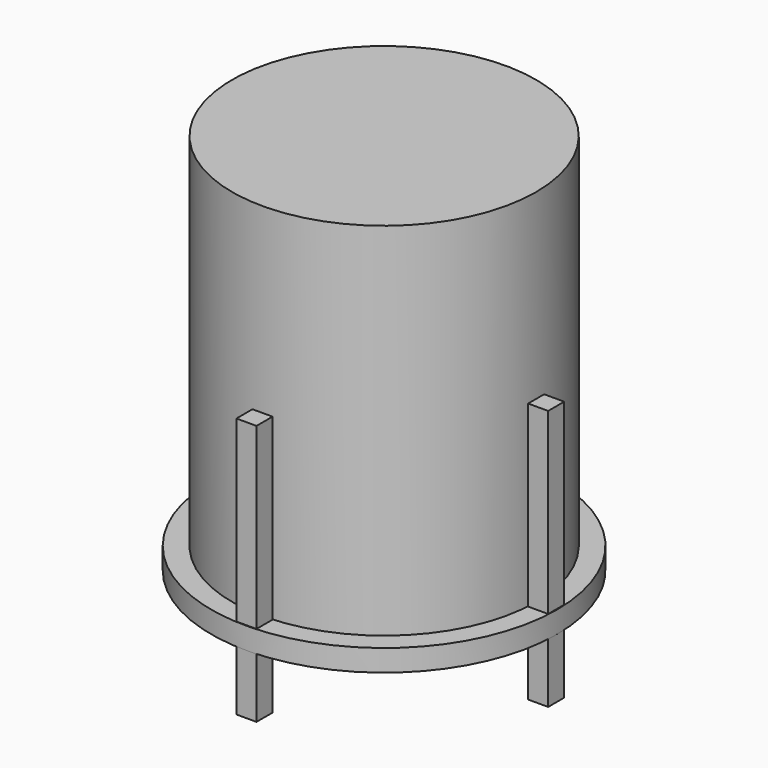
from build123d import *

# Parameters (mm, degrees)
F0_R     = 1155.7
F1_DEPTH = 2743.2
F2_R     = 1314.45
F2_R_2   = 1155.7
F3_DEPTH = 165.1
F5_DEPTH = 1358.9
F6_DEPTH = 622.3


with BuildPart() as f1:
    # F0 (on Top) → F1 (new body)
    with BuildSketch(Plane.XY):
        Circle(F0_R)
    extrude(amount=F1_DEPTH)


with BuildPart() as f3:
    # F2 (on face) → F3 (new body)
    with BuildSketch(Plane(origin=(0, 0, 0), x_dir=(1, 0, 0), z_dir=(0, 0, -1))):
        Circle(F2_R)
        Circle(F2_R_2, mode=Mode.SUBTRACT)
    extrude(amount=F3_DEPTH)


with BuildPart() as f5:
    # F4 (on face) → F5 (new body)
    with BuildSketch(Plane.XY):
        Polygon((-1155.7, 0), (-1155.7, 76.2), (-1308.1, 76.2), (-1308.1, 0), (-1308.1, -76.2), (-1155.7, -76.2), align=None)
        Polygon((76.2, -1308.1), (76.2, -1155.7), (0, -1155.7), (-76.2, -1155.7), (-76.2, -1308.1), (0, -1308.1), align=None)
        Polygon((1308.1, 76.2), (1155.7, 76.2), (1155.7, 0), (1155.7, -76.2), (1308.1, -76.2), (1308.1, 0), align=None)
        Polygon((-76.2, 1308.1), (-76.2, 1155.7), (0, 1155.7), (76.2, 1155.7), (76.2, 1308.1), (0, 1308.1), align=None)
    extrude(amount=F5_DEPTH)


with BuildPart() as f6:
    # F4 (on face) → F6 (new body)
    with BuildSketch(Plane.XY):
        Polygon((-1155.7, 0), (-1155.7, 76.2), (-1308.1, 76.2), (-1308.1, 0), (-1308.1, -76.2), (-1155.7, -76.2), align=None)
        Polygon((76.2, -1308.1), (76.2, -1155.7), (0, -1155.7), (-76.2, -1155.7), (-76.2, -1308.1), (0, -1308.1), align=None)
        Polygon((1308.1, 76.2), (1155.7, 76.2), (1155.7, 0), (1155.7, -76.2), (1308.1, -76.2), (1308.1, 0), align=None)
        Polygon((-76.2, 1308.1), (-76.2, 1155.7), (0, 1155.7), (76.2, 1155.7), (76.2, 1308.1), (0, 1308.1), align=None)
    extrude(amount=-F6_DEPTH)


solid = Compound([f1.part, f3.part, f5.part, f6.part])
